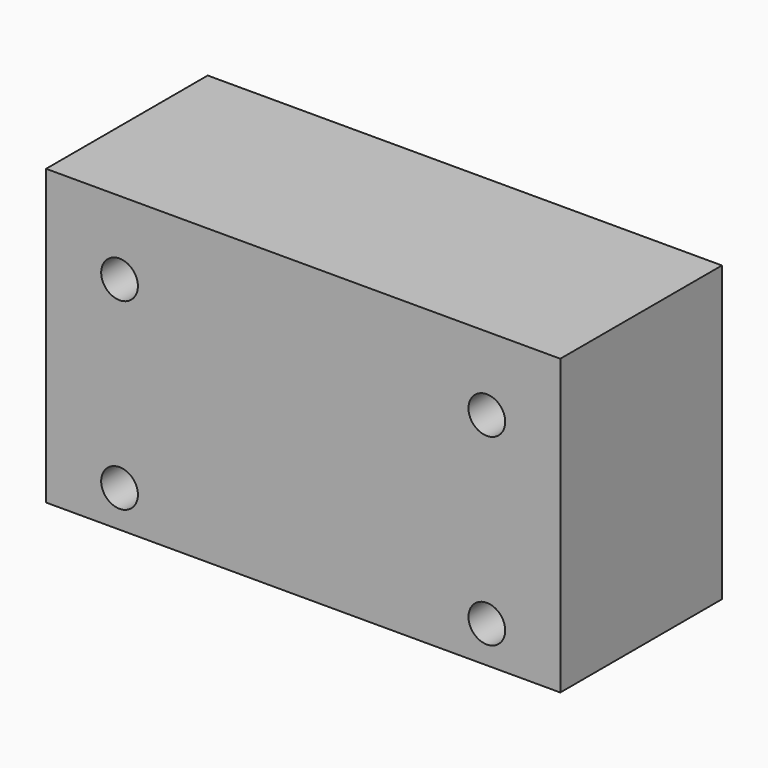
from build123d import *

# Parameters (mm, degrees)
F0_W     = 88.9
F0_H     = 50.8
F1_DEPTH = 34.925
F2_R     = 3.175
F3_DEPTH = 34.925


with BuildPart() as f1:
    # F0 (on Front) → F1 (new body)
    with BuildSketch(Plane.XZ):
        with Locations((-50.103806, 54.703811)):
            Rectangle(F0_W, F0_H)
        with Locations((-50.103806, 54.703811)):
            Rectangle(F0_W, F0_H)
    extrude(amount=F1_DEPTH)

    # F2 (on face) → F3 (cut)
    with BuildSketch(Plane.XZ.offset(34.925)):
        with Locations((-81.853806, 67.403811)):
            Circle(F2_R)
        with Locations((-81.853806, 35.653811)):
            Circle(F2_R)
        with Locations((-18.353806, 67.403811)):
            Circle(F2_R)
        with Locations((-18.353806, 35.653811)):
            Circle(F2_R)
    extrude(amount=-F3_DEPTH, mode=Mode.SUBTRACT)


solid = f1.part
